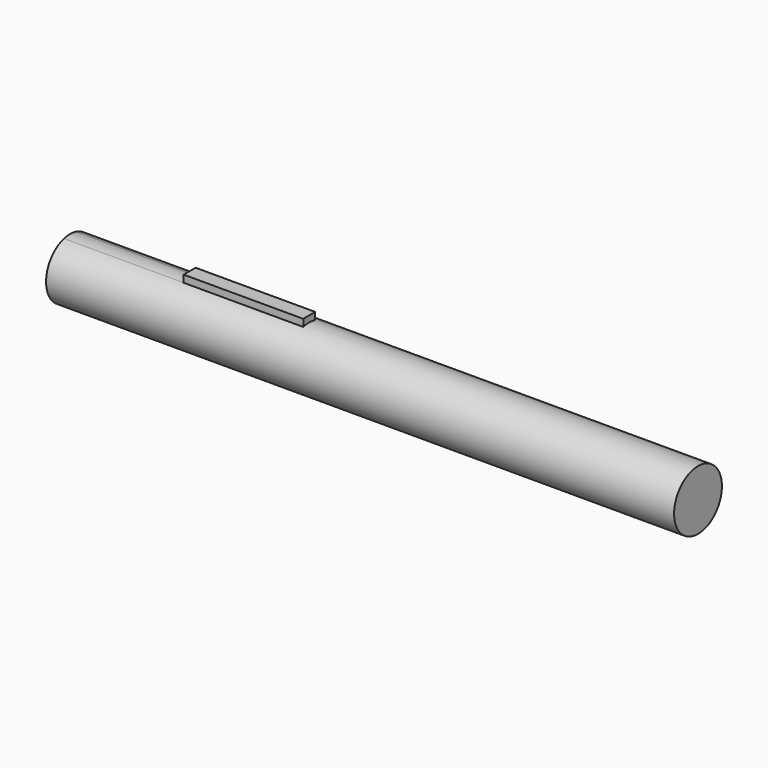
from build123d import *

# Parameters (mm, degrees)
F0_W     = 133.35
F0_H     = 6.35
F3_DEPTH = 50.8
F5_DEPTH = 25.4


with BuildPart() as f1:
    # F0 (on Front) → F1 (revolve)
    with BuildSketch(Plane.XZ):
        with Locations((62.719703, 3.175)):
            Rectangle(F0_W, F0_H)
    revolve(axis=Axis((62.719703, 0, 0), (1, 0, 0)))

    # F2 (on face) → F3 (join)
    with BuildSketch(Plane(origin=(-3.955297, 0, 0), x_dir=(0, -1, 0), z_dir=(-1, 0, 0))):
        with BuildLine():
            Line((-1.5875, 7.672361), (-1.5875, 6.148361))
            ThreePointArc((-1.5875, 6.148361), (0, 6.35), (1.5875, 6.148361))
            Line((1.5875, 6.148361), (1.5875, 7.672361))
            Line((1.5875, 7.672361), (-1.5875, 7.672361))
        make_face()
    extrude(amount=-F3_DEPTH)

    # F4 (on face) → F5 (cut)
    with BuildSketch(Plane(origin=(-3.955297, 0, 0), x_dir=(0, -1, 0), z_dir=(-1, 0, 0))):
        with BuildLine():
            ThreePointArc((-1.5875, 6.148361), (0, 6.35), (1.5875, 6.148361))
            Line((1.5875, 6.148361), (1.5875, 7.672361))
            Line((1.5875, 7.672361), (-1.5875, 7.672361))
            Line((-1.5875, 7.672361), (-1.5875, 6.148361))
        make_face()
    extrude(amount=-F5_DEPTH, mode=Mode.SUBTRACT)


solid = f1.part
